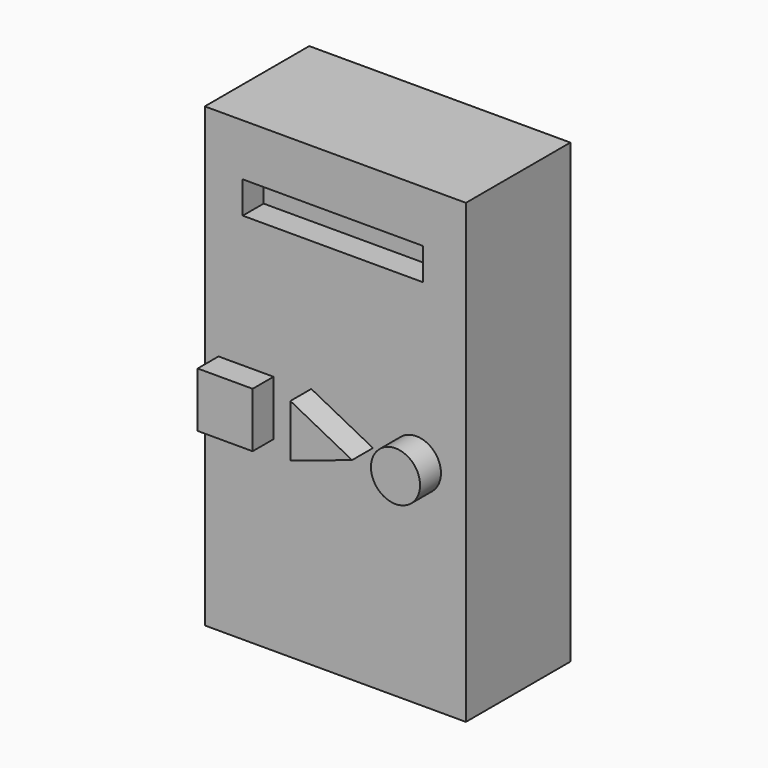
from build123d import *

# Parameters (mm, degrees)
F1_DEPTH  = 12.7
F2_W      = 17.557748
F2_H      = 3.1115
F3_DEPTH  = 2.54
F5_DEPTH  = 2.54
F6_W      = 5.349429
F6_H      = 5.349428
F7_DEPTH  = 2.54
F8_R      = 2.389631
F9_DEPTH  = 2.54
F10_R     = 2.235372
F11_DEPTH = 12.7


with BuildPart() as f1:
    # F0 (on Front) → F1 (new body)
    with BuildSketch(Plane.XZ):
        Polygon((-14.136652, 29.049095), (-14.136652, 0), (-14.136652, -15.400905), (11.263348, -15.400905), (11.263348, 29.049095), align=None)
    extrude(amount=F1_DEPTH)

    # F2 (on face) → F3 (cut)
    with BuildSketch(Plane.XZ.offset(12.7)):
        with Locations((-1.666876, 22.447251)):
            Rectangle(F2_W, F2_H)
    extrude(amount=-F3_DEPTH, mode=Mode.SUBTRACT)

    # F4 (on face) → F5 (join)
    with BuildSketch(Plane.XZ.offset(12.7)):
        Polygon((2.2225, 5.11175), (-3.77825, 8.223251), (-3.77825, 3.1115), align=None)
    extrude(amount=F5_DEPTH)

    # F6 (on face) → F7 (join)
    with BuildSketch(Plane.XZ.offset(12.7)):
        with Locations((-10.126119, 5.396833)):
            Rectangle(F6_W, F6_H)
    extrude(amount=F7_DEPTH)

    # F8 (on face) → F9 (join)
    with BuildSketch(Plane.XZ.offset(12.7)):
        with Locations((6.446437, 5.11175)):
            Circle(F8_R)
    extrude(amount=F9_DEPTH)

    # F10 (on face) → F11 (cut)
    with BuildSketch(Plane(origin=(0, 0, -15.400905), x_dir=(1, 0, 0), z_dir=(0, 0, -1))):
        with Locations((-8.754111, 6.379303)):
            Circle(F10_R)
    extrude(amount=-F11_DEPTH, mode=Mode.SUBTRACT)


solid = f1.part
